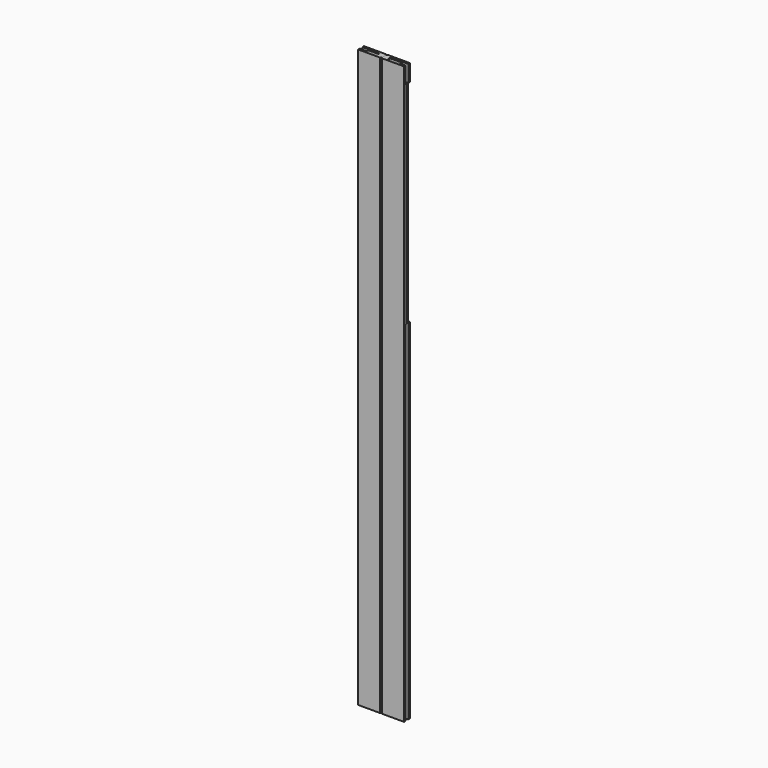
from build123d import *

# Parameters (mm, degrees)
F0_W      = 69.85
F0_H      = 1778
F1_DEPTH  = 22.225
F2_W      = 9.525
F2_H      = 47.625
F2_H_2    = 38.1
F2_H_3    = 53.975
F3_DEPTH  = 38.1
F2_H_4    = 31.75
F2_H_5    = 25.4
F4_DEPTH  = 19.05
F5_W      = 69.85
F5_H      = 12.7
F6_DEPTH  = 22.226
F7_W      = 9.525
F7_H      = 939.8
F8_DEPTH  = 9.525
F11_DEPTH = 1.984375
F12_DEPTH = 1.984375
F13_SIZE  = 3.175
F14_DEPTH = 6.35


with BuildPart() as f1:
    # F0 (on Front) → F1 (new body)
    with BuildSketch(Plane.XZ):
        with Locations((34.925, 889)):
            Rectangle(F0_W, F0_H)
    extrude(amount=F1_DEPTH)

    # F2 (on face) → F3 (cut)
    with BuildSketch(Plane.YZ.offset(69.85)):
        with Locations((-11.1125, 55.5625)):
            Rectangle(F2_W, F2_H)
        with Locations((-11.1125, 1733.55)):
            Rectangle(F2_W, F2_H_2)
        with Locations((-11.1125, 1046.1625)):
            Rectangle(F2_W, F2_H_3)
    extrude(amount=-F3_DEPTH, mode=Mode.SUBTRACT)

    # F2 (on face) → F4 (cut)
    with BuildSketch(Plane.YZ.offset(69.85)):
        with Locations((-11.1125, 15.875)):
            Rectangle(F2_W, F2_H_4)
        with Locations((-11.1125, 1765.3)):
            Rectangle(F2_W, F2_H_5)
    extrude(amount=-F4_DEPTH, mode=Mode.SUBTRACT)

    # F5 (on face) → F6 (cut, through all)
    with BuildSketch(Plane.XZ.offset(22.225)):
        with Locations((34.925, 6.35)):
            Rectangle(F5_W, F5_H)
        with Locations((34.925, 1771.65)):
            Rectangle(F5_W, F5_H)
    extrude(amount=-F6_DEPTH, mode=Mode.SUBTRACT)

    # F7 (on face) → F8 (cut)
    with BuildSketch(Plane.YZ.offset(69.85)):
        with Locations((-11.1125, 549.275)):
            Rectangle(F7_W, F7_H)
        with Locations((-11.1125, 549.275)):
            Rectangle(F7_W, F7_H)
    extrude(amount=-F8_DEPTH, mode=Mode.SUBTRACT)

    # F9 (on face) → F11 (cut)
    with BuildSketch(Plane(origin=(0, 0, 12.7), x_dir=(1, 0, 0), z_dir=(0, 0, -1))):
        with BuildLine():
            Line((61.9125, 16.66875), (20.6375, 16.66875))
            ThreePointArc((20.6375, 16.66875), (15.875, 11.90625), (20.6375, 7.14375))
            Line((20.6375, 7.14375), (50.8, 7.14375))
            Line((50.8, 7.14375), (50.8, 15.875))
            Line((50.8, 15.875), (64.545071, 15.875))
            ThreePointArc((64.545071, 15.875), (63.287315, 16.465997), (61.9125, 16.66875))
        make_face()
        with BuildLine():
            Line((50.8, 15.875), (50.8, 7.14375))
            Line((50.8, 7.14375), (61.9125, 7.14375))
            ThreePointArc((61.9125, 7.14375), (66.472247, 10.531435), (64.545071, 15.875))
            Line((64.545071, 15.875), (50.8, 15.875))
        make_face()
    extrude(amount=-F11_DEPTH, mode=Mode.SUBTRACT)

    # F10 (on face) → F12 (cut)
    with BuildSketch(Plane.XY.offset(1765.3)):
        with BuildLine():
            Line((50.8, -7.14375), (20.6375, -7.14375))
            ThreePointArc((20.6375, -7.14375), (15.875, -11.90625), (20.6375, -16.66875))
            Line((20.6375, -16.66875), (61.9125, -16.66875))
            ThreePointArc((61.9125, -16.66875), (63.287315, -16.465997), (64.545071, -15.875))
            Line((64.545071, -15.875), (50.8, -15.875))
            Line((50.8, -15.875), (50.8, -7.14375))
        make_face()
        with BuildLine():
            Line((61.9125, -7.14375), (50.8, -7.14375))
            Line((50.8, -7.14375), (50.8, -15.875))
            Line((50.8, -15.875), (64.545071, -15.875))
            ThreePointArc((64.545071, -15.875), (66.472247, -10.531435), (61.9125, -7.14375))
        make_face()
    extrude(amount=-F12_DEPTH, mode=Mode.SUBTRACT)

    # F13
    f13_edges = [f1.edges().sort_by_distance(p)[0] for p in [
        (0, -22.225, 889),
        (0, 0, 889),
    ]]
    chamfer(f13_edges, length=F13_SIZE)

    # F7 (on face) → F14 (cut)
    with BuildSketch(Plane.YZ.offset(69.85)):
        Polygon((-12.7, 1073.15), (-6.35, 1073.15), (0, 1073.15), (0, 1714.5), (-6.35, 1714.5), (-12.7, 1714.5), align=None)
    extrude(amount=-F14_DEPTH, mode=Mode.SUBTRACT)


with BuildPart() as f15_1:
    # F15: instance of F1
    add(f1.part.mirror(Plane.YZ))


solid = Compound([f1.part, f15_1.part])
